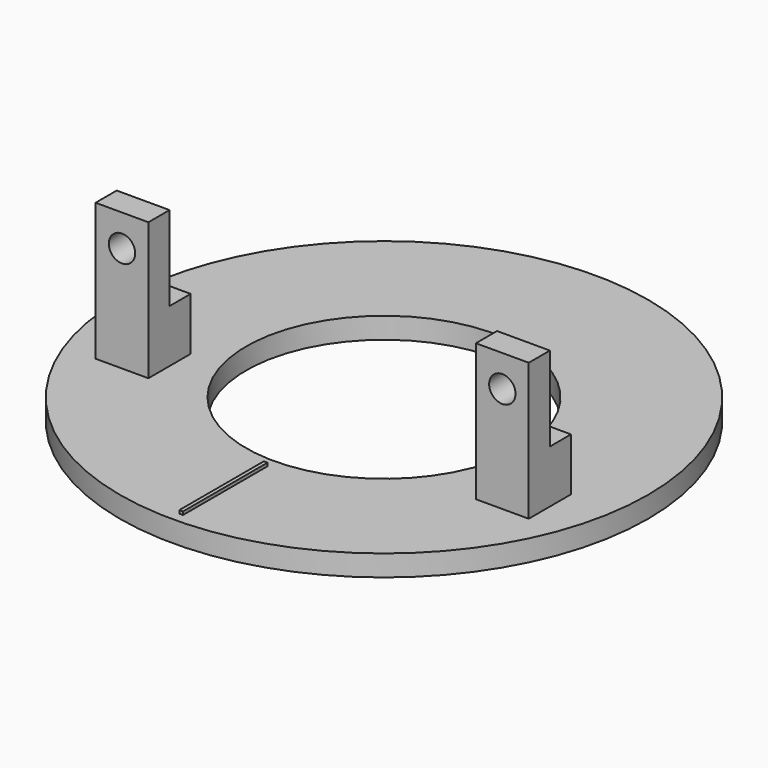
from build123d import *

# Parameters (mm, degrees)
SKETCH_R        = 25
PAD_DEPTH       = 2
SKETCH001_R     = 13.05
POCKET_DEPTH    = 5
SKETCH002_W     = 5
SKETCH002_H     = 2.5
PAD001_DEPTH    = 13
SKETCH003_R     = 1.25
POCKET001_DEPTH = 5
SKETCH004_W     = 5
SKETCH004_H     = 2.5
PAD002_DEPTH    = 5
SKETCH005_W     = 0.35
SKETCH005_H     = 10
PAD003_DEPTH    = 0.3


with BuildPart() as part:
    # Sketch → Pad (new body)
    with BuildSketch(Plane.XY):
        Circle(SKETCH_R)
    extrude(amount=PAD_DEPTH)

    # Sketch001 → Pocket (cut)
    with BuildSketch(Plane.XY.offset(2)):
        Circle(SKETCH001_R)
    extrude(amount=-POCKET_DEPTH, mode=Mode.SUBTRACT)

    # Sketch002 → Pad001 (new body)
    with BuildSketch(Plane.XY.offset(2)):
        with Locations((-18, -7.25)):
            Rectangle(SKETCH002_W, SKETCH002_H)
        with Locations((18, -7.25)):
            Rectangle(SKETCH002_W, SKETCH002_H)
    extrude(amount=PAD001_DEPTH)

    # Sketch003 → Pocket001 (cut)
    with BuildSketch(Plane.XZ.offset(8.5)):
        with Locations((-18, 12)):
            Circle(SKETCH003_R)
        with Locations((18, 12)):
            Circle(SKETCH003_R)
    extrude(amount=-POCKET001_DEPTH, mode=Mode.SUBTRACT)

    # Sketch004 → Pad002 (new body)
    with BuildSketch(Plane.XY.offset(2)):
        with Locations((-18, -4.75)):
            Rectangle(SKETCH004_W, SKETCH004_H)
        with Locations((18, -4.75)):
            Rectangle(SKETCH004_W, SKETCH004_H)
    extrude(amount=PAD002_DEPTH)

    # Sketch005 → Pad003 (new body)
    with BuildSketch(Plane.XY.offset(2)):
        with Locations((0, -19)):
            Rectangle(SKETCH005_W, SKETCH005_H)
    extrude(amount=PAD003_DEPTH)


solid = part.part
